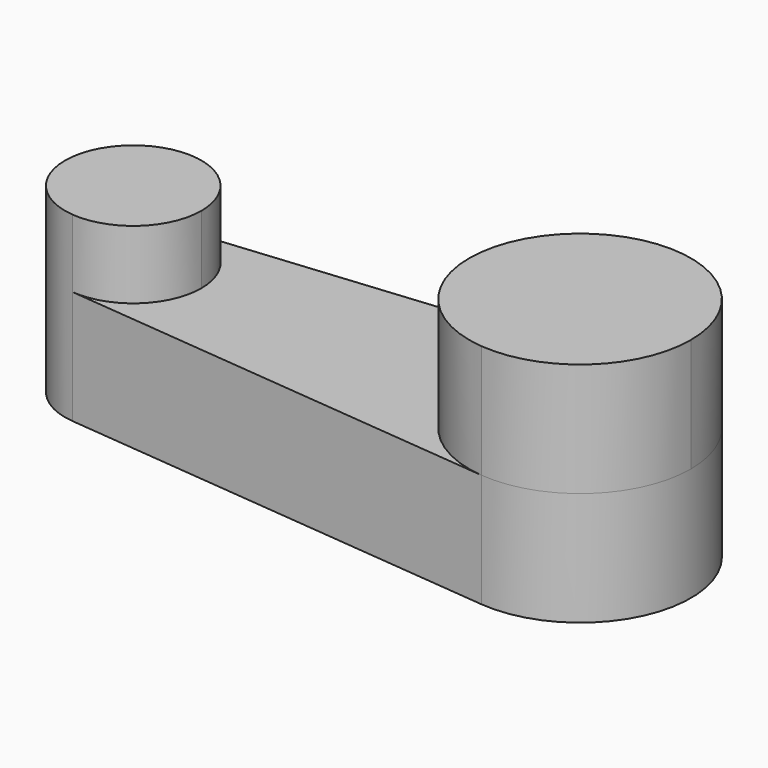
from build123d import *

# Parameters (mm, degrees)
F1_DEPTH = 20
F3_DEPTH = 20
F5_DEPTH = 12


with BuildPart() as f1:
    # F0 (on Top) → F1 (new body)
    with BuildSketch(Plane.XY):
        with BuildLine():
            Line((76.790496, 19.411137), (-1.14431, 11.945315))
            ThreePointArc((-1.14431, 11.945315), (-12, 0), (-1.14431, -11.945315))
            Line((-1.14431, -11.945315), (76.790496, -19.411137))
            ThreePointArc((76.790496, -19.411137), (98.15, 0), (76.790496, 19.411137))
        make_face()
    extrude(amount=F1_DEPTH)

    # F2 (on face) → F3 (join)
    with BuildSketch(Plane.XY.offset(20)):
        with BuildLine():
            ThreePointArc((76.790496, -19.411137), (91.76468, -14.431049), (98.15, 0))
            ThreePointArc((98.15, 0), (91.76468, 14.431049), (76.790496, 19.411137))
            ThreePointArc((76.790496, 19.411137), (59.15, 0), (76.790496, -19.411137))
        make_face()
    extrude(amount=F3_DEPTH)

    # F4 (on face) → F5 (join)
    with BuildSketch(Plane.XY.offset(20)):
        with BuildLine():
            ThreePointArc((-1.14431, -11.945315), (8.070572, -8.880645), (12, 0))
            ThreePointArc((12, 0), (8.070572, 8.880645), (-1.14431, 11.945315))
            ThreePointArc((-1.14431, 11.945315), (-12, 0), (-1.14431, -11.945315))
        make_face()
    extrude(amount=F5_DEPTH)


solid = f1.part
